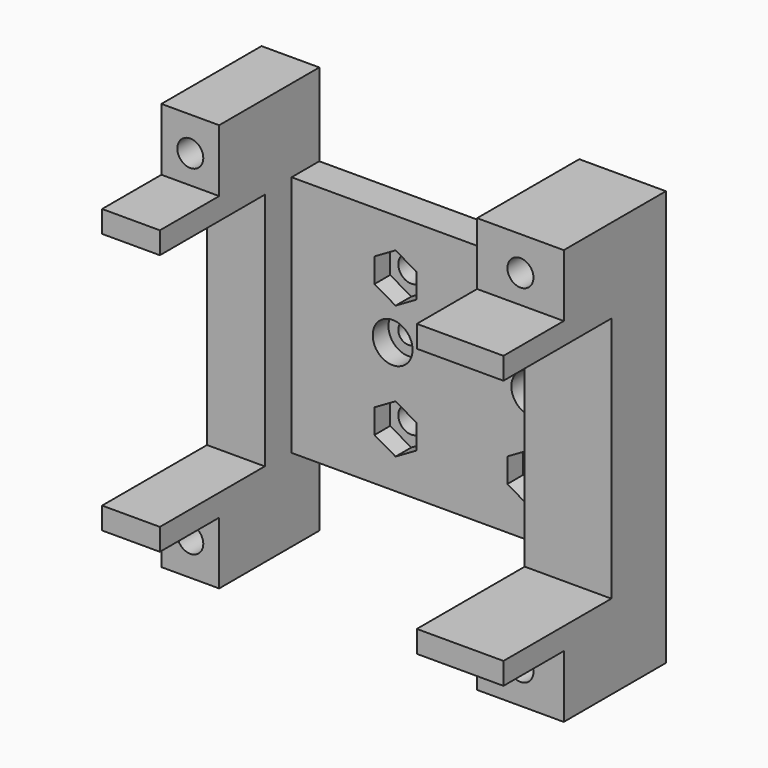
from build123d import *

# Parameters (mm, degrees)
F0_R     = 3.45
F1_DEPTH = 6
F0_W     = 10
F0_H     = 41.4
F2_DEPTH = 11.8
F3_DEPTH = 34.5
F0_W_2   = 15
F0_H_2   = 3.8
F4_DEPTH = 35.15
F0_H_3   = 10.8
F0_R_2   = 2.25
F5_DEPTH = 21.667
F6_DEPTH = 22.1
F0_R_3   = 1.75
F7_DEPTH = 2.6
F8_DEPTH = 11.5


with BuildPart() as f1:
    # F0 (on Front) → F1 (new body)
    with BuildSketch(Plane.XZ):
        Polygon((15.5, 21), (-29.5, 21), (-29.5, 20.7), (-29.5, -20.7), (-29.5, -21), (15.5, -21), align=None)
        Polygon((-15.15, -13.607328), (-15.15, -9.392672), (-11.5, -7.285343), (-7.85, -9.392672), (-7.85, -13.607328), (-11.5, -15.714657), align=None, mode=Mode.SUBTRACT)
        Polygon((11.5, -15.714657), (7.85, -13.607328), (7.85, -9.392672), (11.5, -7.285343), (15.15, -9.392672), (15.15, -13.607328), align=None, mode=Mode.SUBTRACT)
        with Locations((-12, 1.5)):
            Circle(F0_R, mode=Mode.SUBTRACT)
        Polygon((-11.5, 15.714657), (-7.85, 13.607328), (-7.85, 9.392672), (-11.5, 7.285343), (-15.15, 9.392672), (-15.15, 13.607328), align=None, mode=Mode.SUBTRACT)
        with Locations((12, 1.5)):
            Circle(F0_R, mode=Mode.SUBTRACT)
        Polygon((7.85, 9.392672), (7.85, 13.607328), (11.5, 15.714657), (15.15, 13.607328), (15.15, 9.392672), (11.5, 7.285343), align=None, mode=Mode.SUBTRACT)
    extrude(amount=F1_DEPTH)

    # F0 (on Front) → F2 (join)
    with BuildSketch(Plane.XZ):
        with Locations((-34.5, 0)):
            Rectangle(F0_W, F0_H)
        Polygon((15.5, 21.35), (15.5, 21), (15.5, -21), (15.5, -21.35), (30.5, -21.35), (30.5, 21.35), align=None)
    extrude(amount=F2_DEPTH)

    # F0 (on Front) → F3 (join)
    with BuildSketch(Plane.XZ):
        Polygon((-29.5, 24.5), (-39.5, 24.5), (-39.5, 20.7), (-29.5, 20.7), (-29.5, 21), align=None)
        Polygon((-29.5, -20.7), (-39.5, -20.7), (-39.5, -24.5), (-29.5, -24.5), (-29.5, -21), align=None)
    extrude(amount=F3_DEPTH)

    # F0 (on Front) → F4 (join)
    with BuildSketch(Plane.XZ):
        with Locations((23, -23.25)):
            Rectangle(F0_W_2, F0_H_2)
        with Locations((23, 23.25)):
            Rectangle(F0_W_2, F0_H_2)
    extrude(amount=F4_DEPTH)

    # F0 (on Front) → F5 (join)
    with BuildSketch(Plane.XZ):
        with Locations((-34.5, -29.9)):
            Rectangle(F0_W, F0_H_3)
        Polygon((-34.5, -25.185343), (-30.85, -27.292672), (-30.85, -31.507328), (-34.5, -33.614657), (-38.15, -31.507328), (-38.15, -27.292672), align=None, mode=Mode.SUBTRACT)
        Polygon((-30.85, -31.507328), (-30.85, -27.292672), (-34.5, -25.185343), (-38.15, -27.292672), (-38.15, -31.507328), (-34.5, -33.614657), align=None)
        with Locations((-34.5, -29.4)):
            Circle(F0_R_2, mode=Mode.SUBTRACT)
        with Locations((-34.5, 29.9)):
            Rectangle(F0_W, F0_H_3)
        Polygon((-34.5, 33.614657), (-30.85, 31.507328), (-30.85, 27.292672), (-34.5, 25.185343), (-38.15, 27.292672), (-38.15, 31.507328), align=None, mode=Mode.SUBTRACT)
        Polygon((-30.85, 27.292672), (-30.85, 31.507328), (-34.5, 33.614657), (-38.15, 31.507328), (-38.15, 27.292672), (-34.5, 25.185343), align=None)
        with Locations((-34.5, 29.4)):
            Circle(F0_R_2, mode=Mode.SUBTRACT)
    extrude(amount=F5_DEPTH)

    # F0 (on Front) → F6 (join)
    with BuildSketch(Plane.XZ):
        with Locations((23, -30.55)):
            Rectangle(F0_W_2, F0_H_3)
        Polygon((26.65, -27.942672), (26.65, -32.157328), (23, -34.264657), (19.35, -32.157328), (19.35, -27.942672), (23, -25.835343), align=None, mode=Mode.SUBTRACT)
        Polygon((23, -34.264657), (26.65, -32.157328), (26.65, -27.942672), (23, -25.835343), (19.35, -27.942672), (19.35, -32.157328), align=None)
        with Locations((23, -30.05)):
            Circle(F0_R_2, mode=Mode.SUBTRACT)
        with Locations((23, 30.55)):
            Rectangle(F0_W_2, F0_H_3)
        Polygon((23, 34.264657), (26.65, 32.157328), (26.65, 27.942672), (23, 25.835343), (19.35, 27.942672), (19.35, 32.157328), align=None, mode=Mode.SUBTRACT)
        Polygon((26.65, 27.942672), (26.65, 32.157328), (23, 34.264657), (19.35, 32.157328), (19.35, 27.942672), (23, 25.835343), align=None)
        with Locations((23, 30.05)):
            Circle(F0_R_2, mode=Mode.SUBTRACT)
    extrude(amount=F6_DEPTH)

    # F0 (on Front) → F7 (join)
    with BuildSketch(Plane.XZ):
        Polygon((-7.85, 9.392672), (-7.85, 13.607328), (-11.5, 15.714657), (-15.15, 13.607328), (-15.15, 9.392672), (-11.5, 7.285343), align=None)
        with Locations((-11.5, 11.5)):
            Circle(F0_R_2, mode=Mode.SUBTRACT)
        Polygon((11.5, 15.714657), (7.85, 13.607328), (7.85, 9.392672), (11.5, 7.285343), (15.15, 9.392672), (15.15, 13.607328), align=None)
        with Locations((11.5, 11.5)):
            Circle(F0_R_2, mode=Mode.SUBTRACT)
        Polygon((7.85, -9.392672), (7.85, -13.607328), (11.5, -15.714657), (15.15, -13.607328), (15.15, -9.392672), (11.5, -7.285343), align=None)
        with Locations((11.5, -11.5)):
            Circle(F0_R_2, mode=Mode.SUBTRACT)
        Polygon((-11.5, -7.285343), (-15.15, -9.392672), (-15.15, -13.607328), (-11.5, -15.714657), (-7.85, -13.607328), (-7.85, -9.392672), align=None)
        with Locations((-11.5, -11.5)):
            Circle(F0_R_2, mode=Mode.SUBTRACT)
        with Locations((-12, 1.5)):
            Circle(F0_R)
        with Locations((-12, 1.5)):
            Circle(F0_R_3, mode=Mode.SUBTRACT)
        with Locations((12, 1.5)):
            Circle(F0_R)
        with Locations((12, 1.5)):
            Circle(F0_R_3, mode=Mode.SUBTRACT)
    extrude(amount=F7_DEPTH)

    # F0 (on Front) → F8 (cut)
    with BuildSketch(Plane.XZ):
        Polygon((23, -34.264657), (26.65, -32.157328), (26.65, -27.942672), (23, -25.835343), (19.35, -27.942672), (19.35, -32.157328), align=None)
        with Locations((23, -30.05)):
            Circle(F0_R_2, mode=Mode.SUBTRACT)
        Polygon((26.65, 27.942672), (26.65, 32.157328), (23, 34.264657), (19.35, 32.157328), (19.35, 27.942672), (23, 25.835343), align=None)
        with Locations((23, 30.05)):
            Circle(F0_R_2, mode=Mode.SUBTRACT)
        Polygon((-30.85, 27.292672), (-30.85, 31.507328), (-34.5, 33.614657), (-38.15, 31.507328), (-38.15, 27.292672), (-34.5, 25.185343), align=None)
        with Locations((-34.5, 29.4)):
            Circle(F0_R_2, mode=Mode.SUBTRACT)
        Polygon((-30.85, -31.507328), (-30.85, -27.292672), (-34.5, -25.185343), (-38.15, -27.292672), (-38.15, -31.507328), (-34.5, -33.614657), align=None)
        with Locations((-34.5, -29.4)):
            Circle(F0_R_2, mode=Mode.SUBTRACT)
    extrude(amount=F8_DEPTH, mode=Mode.SUBTRACT)


solid = f1.part
